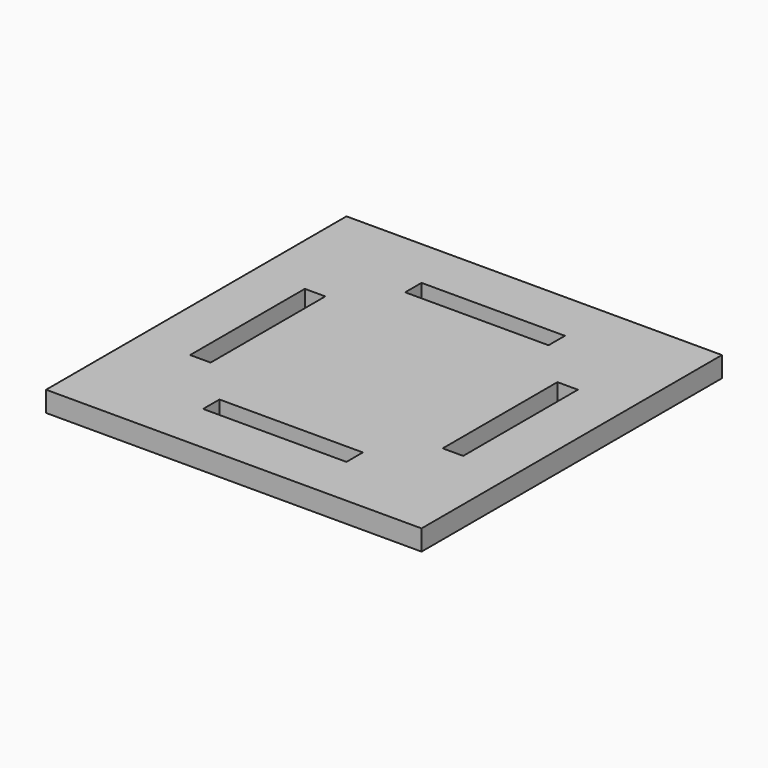
from build123d import *

# Parameters (mm, degrees)
F0_W     = 55
F0_H     = 55
F0_W_2   = 21
F0_H_2   = 3
F0_W_3   = 3
F0_H_3   = 21
F1_DEPTH = 3


with BuildPart() as f1:
    # F0 (on Top) → F1 (new body)
    with BuildSketch(Plane.XY):
        Rectangle(F0_W, F0_H)
        with Locations((0, -18.5)):
            Rectangle(F0_W_2, F0_H_2, mode=Mode.SUBTRACT)
        with Locations((-18.5, 0)):
            Rectangle(F0_W_3, F0_H_3, mode=Mode.SUBTRACT)
        with Locations((18.5, 0)):
            Rectangle(F0_W_3, F0_H_3, mode=Mode.SUBTRACT)
        with Locations((0, 18.5)):
            Rectangle(F0_W_2, F0_H_2, mode=Mode.SUBTRACT)
    extrude(amount=F1_DEPTH)


solid = f1.part
